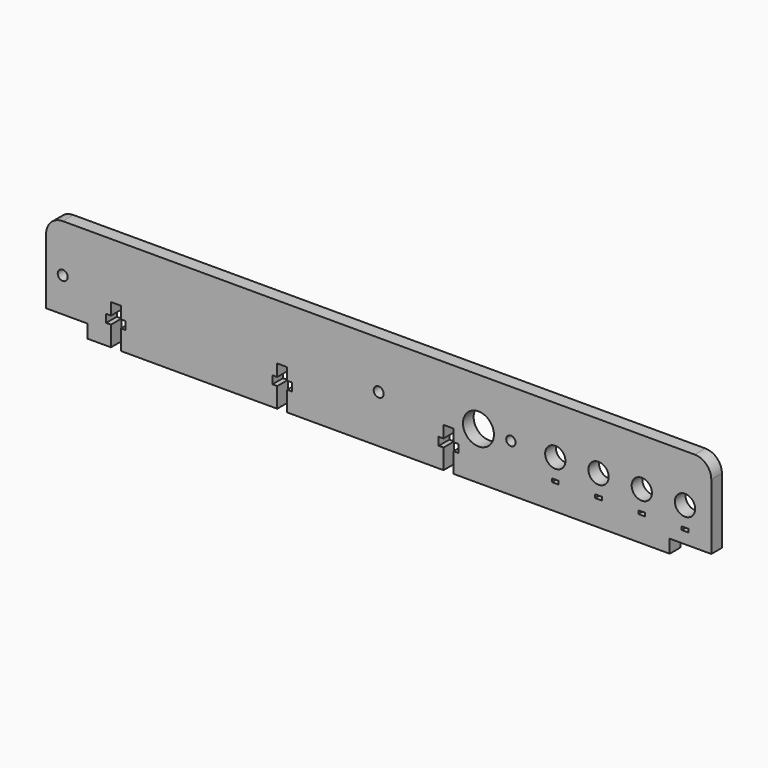
from build123d import *

# Parameters (mm, degrees)
F0_R     = 1.5
F0_R_2   = 4.65
F0_R_3   = 1.4
F0_W     = 2
F0_H     = 1
F0_R_4   = 3.05
F1_DEPTH = 4


with BuildPart() as f1:
    # F0 (on Front) → F1 (new body)
    with BuildSketch(Plane.XZ):
        with BuildLine():
            Line((195, 28.7), (5, 28.7))
            ThreePointArc((5, 28.7), (1.464466, 27.235534), (0, 23.7))
            Line((0, 23.7), (0, 4))
            Line((0, 4), (12.5, 4))
            Line((12.5, 4), (12.5, 0))
            Line((12.5, 0), (19.5, 0))
            Line((19.5, 0), (19.5, 6))
            Line((19.5, 6), (18.05, 6))
            Line((18.05, 6), (18.05, 8.4))
            Line((18.05, 8.4), (19.5, 8.4))
            Line((19.5, 8.4), (19.5, 12))
            Line((19.5, 12), (22.5, 12))
            Line((22.5, 12), (22.5, 8.4))
            Line((22.5, 8.4), (23.95, 8.4))
            Line((23.95, 8.4), (23.95, 6))
            Line((23.95, 6), (22.5, 6))
            Line((22.5, 6), (22.5, 0))
            Line((22.5, 0), (69.5, 0))
            Line((69.5, 0), (69.5, 6))
            Line((69.5, 6), (68.05, 6))
            Line((68.05, 6), (68.05, 8.4))
            Line((68.05, 8.4), (69.5, 8.4))
            Line((69.5, 8.4), (69.5, 12))
            Line((69.5, 12), (72.5, 12))
            Line((72.5, 12), (72.5, 8.4))
            Line((72.5, 8.4), (73.95, 8.4))
            Line((73.95, 8.4), (73.95, 6))
            Line((73.95, 6), (72.5, 6))
            Line((72.5, 6), (72.5, 0))
            Line((72.5, 0), (119.5, 0))
            Line((119.5, 0), (119.5, 6))
            Line((119.5, 6), (118.05, 6))
            Line((118.05, 6), (118.05, 8.4))
            Line((118.05, 8.4), (119.5, 8.4))
            Line((119.5, 8.4), (119.5, 12))
            Line((119.5, 12), (122.5, 12))
            Line((122.5, 12), (122.5, 8.4))
            Line((122.5, 8.4), (123.95, 8.4))
            Line((123.95, 8.4), (123.95, 6))
            Line((123.95, 6), (122.5, 6))
            Line((122.5, 6), (122.5, 0))
            Line((122.5, 0), (187.5, 0))
            Line((187.5, 0), (187.5, 4))
            Line((187.5, 4), (200, 4))
            Line((200, 4), (200, 23.7))
            ThreePointArc((200, 23.7), (198.535534, 27.235534), (195, 28.7))
        make_face()
        with Locations((5, 14.35)):
            Circle(F0_R, mode=Mode.SUBTRACT)
        with Locations((100, 14.35)):
            Circle(F0_R, mode=Mode.SUBTRACT)
        with Locations((130, 14.35)):
            Circle(F0_R_2, mode=Mode.SUBTRACT)
        with Locations((139.75, 14.35)):
            Circle(F0_R_3, mode=Mode.SUBTRACT)
        with Locations((153.1, 7.95)):
            Rectangle(F0_W, F0_H, mode=Mode.SUBTRACT)
        with Locations((166.1, 7.95)):
            Rectangle(F0_W, F0_H, mode=Mode.SUBTRACT)
        with Locations((179.1, 7.95)):
            Rectangle(F0_W, F0_H, mode=Mode.SUBTRACT)
        with Locations((192.1, 7.95)):
            Rectangle(F0_W, F0_H, mode=Mode.SUBTRACT)
        with Locations((153.1, 14.35)):
            Circle(F0_R_4, mode=Mode.SUBTRACT)
        with Locations((166.1, 14.35)):
            Circle(F0_R_4, mode=Mode.SUBTRACT)
        with Locations((179.1, 14.35)):
            Circle(F0_R_4, mode=Mode.SUBTRACT)
        with Locations((192.1, 14.35)):
            Circle(F0_R_4, mode=Mode.SUBTRACT)
    extrude(amount=F1_DEPTH)


solid = f1.part
